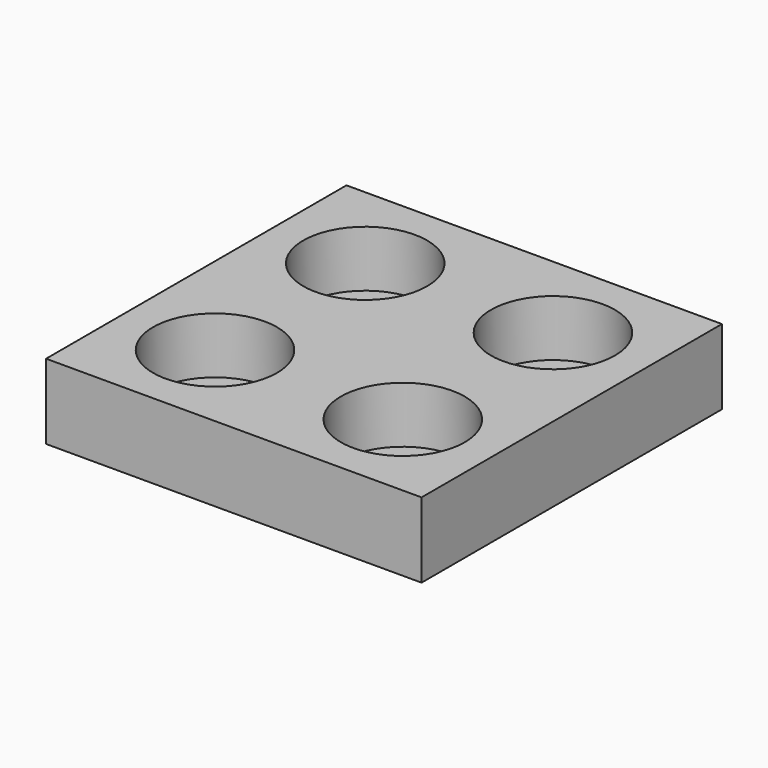
from build123d import *

# Parameters (mm, degrees)
F0_W     = 100
F0_H     = 100
F1_DEPTH = 20
F2_R     = 16.5
F3_DEPTH = 15
F4_T     = -2.5


with BuildPart() as f1:
    # F0 (on Top) → F1 (new body)
    with BuildSketch(Plane.XY):
        with Locations((26.9842460752, 19.6610757008)):
            Rectangle(F0_W, F0_H)
    extrude(amount=F1_DEPTH)

    # F2 (on face) → F3 (cut)
    with BuildSketch(Plane.XY.offset(20)):
        with Locations((1.9842460752, 44.6610757008)):
            Circle(F2_R)
        with Locations((51.9842460752, 44.6610757008)):
            Circle(F2_R)
        with Locations((51.9842460752, -5.3389242992)):
            Circle(F2_R)
        with Locations((1.9842460752, -5.3389242992)):
            Circle(F2_R)
    extrude(amount=-F3_DEPTH, mode=Mode.SUBTRACT)

    # F4
    f4_openings = [f1.faces().sort_by_distance(p)[0] for p in [
        (26.984246, 19.661076, 0),
    ]]
    offset(amount=F4_T, openings=f4_openings, kind=Kind.INTERSECTION)


solid = f1.part
